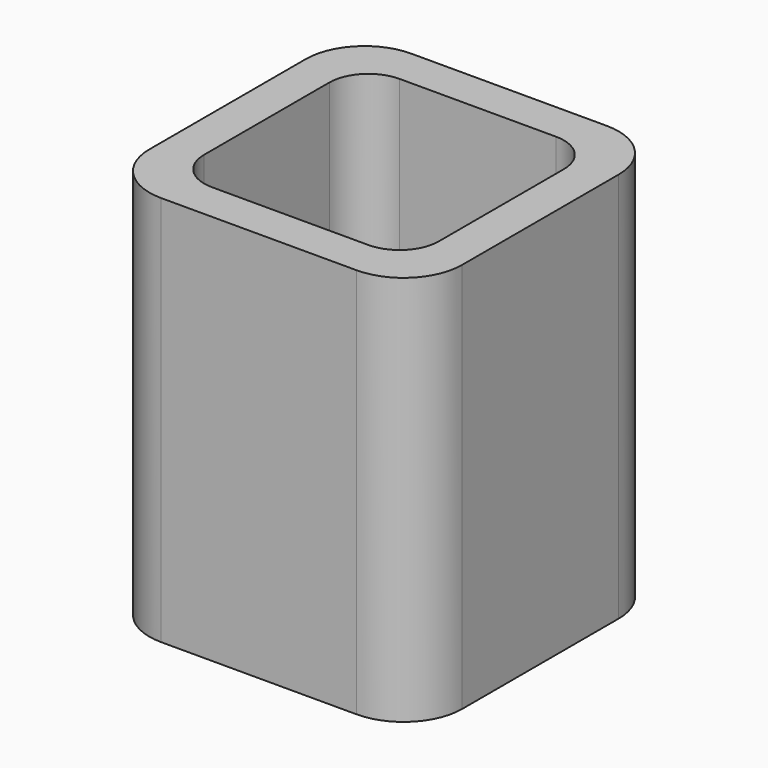
from build123d import *

# Parameters (mm, degrees)
EXTRUDE_DEPTH = 50


with BuildPart() as part:
    # Sketch → Extrude (new body)
    with BuildSketch(Plane.XY):
        with BuildLine():
            Line((-12.5, 20), (12.5, 20))
            ThreePointArc((20, 12.5), (17.803301, 17.803301), (12.5, 20))
            Line((20, 12.5), (20, -12.5))
            ThreePointArc((12.5, -20), (17.803301, -17.803301), (20, -12.5))
            Line((12.5, -20), (-12.5, -20))
            ThreePointArc((-20, -12.5), (-17.803301, -17.803301), (-12.5, -20))
            Line((-20, -12.5), (-20, 12.5))
            ThreePointArc((-12.5, 20), (-17.803301, 17.803301), (-20, 12.5))
        make_face()
        with BuildLine():
            Line((-10, 15), (10, 15))
            ThreePointArc((15, 10), (13.535534, 13.535534), (10, 15))
            Line((15, 10), (15, -10))
            ThreePointArc((10, -15), (13.535534, -13.535534), (15, -10))
            Line((10, -15), (-10, -15))
            ThreePointArc((-15, -10), (-13.535534, -13.535534), (-10, -15))
            Line((-15, -10), (-15, 10))
            ThreePointArc((-10, 15), (-13.535534, 13.535534), (-15, 10))
        make_face(mode=Mode.SUBTRACT)
    extrude(amount=EXTRUDE_DEPTH)


solid = part.part
